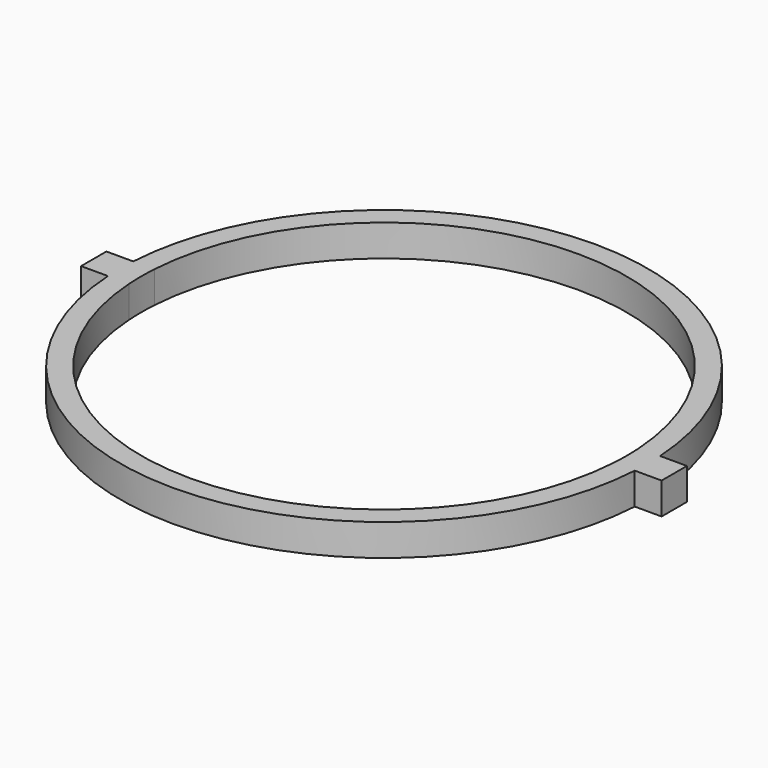
from build123d import *

# Parameters (mm, degrees)
F1_DEPTH = 3


with BuildPart() as f1:
    # F0 (on Top) → F1 (new body)
    with BuildSketch(Plane.XY):
        with BuildLine():
            Line((22.9510348351, 1.5), (24.9549594269, 1.5))
            ThreePointArc((24.9549594269, 1.5), (0, 25), (-24.9549594269, 1.5))
            Line((-24.9549594269, 1.5), (-22.9510348351, 1.5))
            ThreePointArc((-22.9510348351, 1.5), (0, 23), (22.9510348351, 1.5))
        make_face()
        with BuildLine():
            Line((-22.9510348351, 1.5), (-24.9549594269, 1.5))
            ThreePointArc((-24.9549594269, 1.5), (-25, 0), (-24.9549594269, -1.5))
            Line((-24.9549594269, -1.5), (-22.9510348351, -1.5))
            ThreePointArc((-22.9510348351, -1.5), (-23, 0), (-22.9510348351, 1.5))
        make_face()
        with BuildLine():
            ThreePointArc((-24.9549594269, -1.5), (0, -25), (24.9549594269, -1.5))
            Line((24.9549594269, -1.5), (22.9510348351, -1.5))
            ThreePointArc((22.9510348351, -1.5), (0, -23), (-22.9510348351, -1.5))
            Line((-22.9510348351, -1.5), (-24.9549594269, -1.5))
        make_face()
        with BuildLine():
            ThreePointArc((24.9549594269, -1.5), (24.9887373198, -0.7503380327), (25, 0))
            ThreePointArc((25, 0), (24.9887373198, 0.7503380327), (24.9549594269, 1.5))
            Line((24.9549594269, 1.5), (22.9510348351, 1.5))
            ThreePointArc((22.9510348351, 1.5), (22.9877554494, 0.7503994915), (23, 0))
            ThreePointArc((23, 0), (22.9877554494, -0.7503994915), (22.9510348351, -1.5))
            Line((22.9510348351, -1.5), (24.9549594269, -1.5))
        make_face()
        with BuildLine():
            ThreePointArc((24.9549594269, 1.5), (24.9887373198, 0.7503380327), (25, 0))
            ThreePointArc((25, 0), (24.9887373198, -0.7503380327), (24.9549594269, -1.5))
            Line((24.9549594269, -1.5), (27.5, -1.5))
            Line((27.5, -1.5), (27.5, 1.5))
            Line((27.5, 1.5), (24.9549594269, 1.5))
        make_face()
        with BuildLine():
            ThreePointArc((-24.9549594269, -1.5), (-25, 0), (-24.9549594269, 1.5))
            Line((-24.9549594269, 1.5), (-27.5, 1.5))
            Line((-27.5, 1.5), (-27.5, -1.5))
            Line((-27.5, -1.5), (-24.9549594269, -1.5))
        make_face()
    extrude(amount=F1_DEPTH)


solid = f1.part
